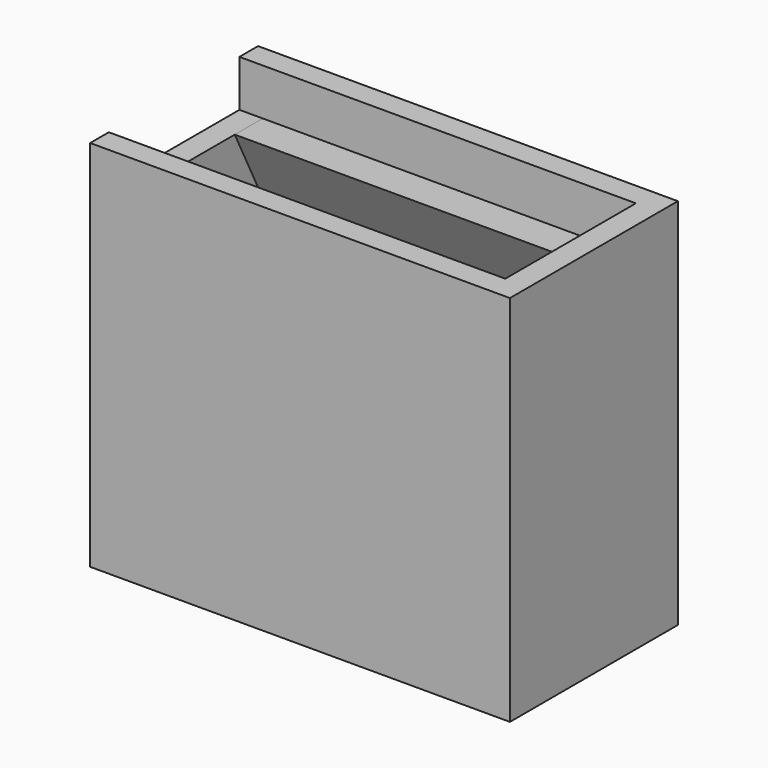
from build123d import *

# Parameters (mm, degrees)
F0_W      = 18
F0_H      = 9
F1_DEPTH  = 14
F2_W      = 16
F2_H      = 7
F3_DEPTH  = 7
F4_W      = 4
F4_H      = 4
F5_DEPTH  = 6
F4_W_2    = 2
F4_H_2    = 7
F6_DEPTH  = 9
F8_DEPTH  = 2
F10_DEPTH = 7
F12_DEPTH = 16


with BuildPart() as f1:
    # F0 (on Top) → F1 (new body)
    with BuildSketch(Plane.XY):
        Rectangle(F0_W, F0_H)
    extrude(amount=F1_DEPTH)

    # F2 (on face) → F3 (cut)
    with BuildSketch(Plane.XY.offset(14)):
        Rectangle(F2_W, F2_H)
    extrude(amount=-F3_DEPTH, mode=Mode.SUBTRACT)

    # F4 (on face) → F5 (cut)
    with BuildSketch(Plane(origin=(0, 0, 0), x_dir=(1, 0, 0), z_dir=(0, 0, -1))):
        with Locations((2.1, 0)):
            Rectangle(F4_W, F4_H)
    extrude(amount=-F5_DEPTH, mode=Mode.SUBTRACT)

    # F4 (on face) → F6 (cut)
    with BuildSketch(Plane(origin=(0, 0, 0), x_dir=(1, 0, 0), z_dir=(0, 0, -1))):
        with Locations((-7, 0)):
            Rectangle(F4_W_2, F4_H_2)
    extrude(amount=-F6_DEPTH, mode=Mode.SUBTRACT)

    # F7 (on face) → F8 (join)
    with BuildSketch(Plane.XY.offset(14)):
        Polygon((9, 4.5), (-9, 4.5), (-9, 3.5), (8, 3.5), (8, -3.5), (-9, -3.5), (-9, -4.5), (9, -4.5), align=None)
    extrude(amount=F8_DEPTH)


with BuildPart() as f10:
    # F9 (on face) → F10 (new body)
    with BuildSketch(Plane(origin=(0, -3.5, 0), x_dir=(-1, 0, 0), z_dir=(0, 1, 0))):
        Polygon((-7, 14), (-8, 14), (-8, 11), align=None)
    extrude(amount=F10_DEPTH)

    # F11 (on face) → F12 (join)
    with BuildSketch(Plane(origin=(8, 0, 0), x_dir=(0, -1, 0), z_dir=(-1, 0, 0))):
        Polygon((3.5, 11), (3.5, 14), (2, 14), align=None)
        Polygon((-3.5, 11), (-2, 14), (-3.5, 14), align=None)
    extrude(amount=F12_DEPTH)


solid = Compound([f1.part, f10.part])
